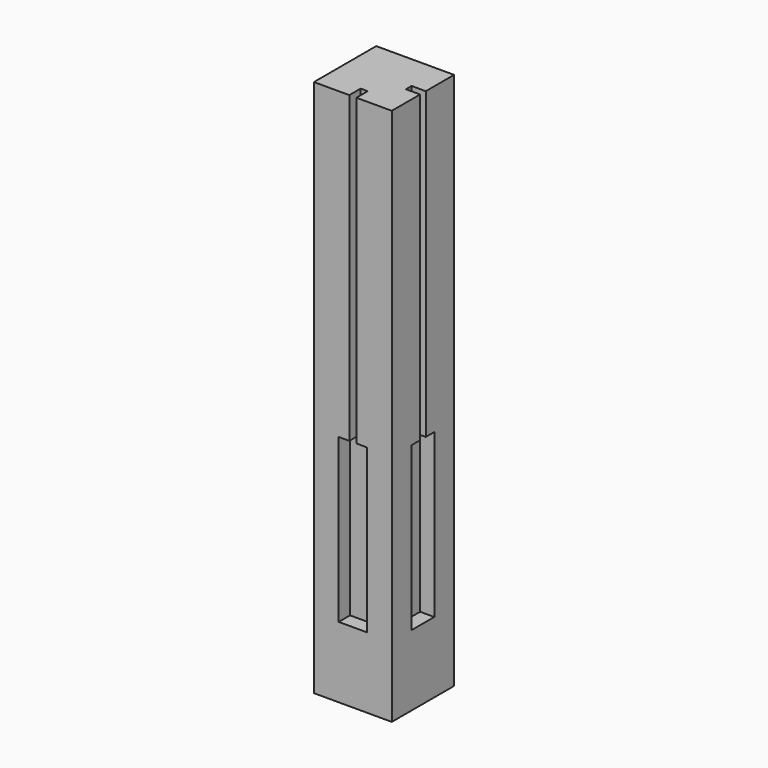
from build123d import *

# Parameters (mm, degrees)
SKETCH_W                = 55
SKETCH_H                = 55
PAD_DEPTH               = 380
POCKET_DEPTH            = 10
POLARPATTERN_COUNT      = 2
POLARPATTERN_ANGLE      = 90
BODY015_PLACEMENT_ANGLE = 90


with BuildPart() as part:
    # Sketch → Pad (new body)
    with BuildSketch(Plane.XY):
        Rectangle(SKETCH_W, SKETCH_H)
    extrude(amount=PAD_DEPTH)

    # Sketch001 (on DatumPlane) → Pocket (cut)
    with BuildSketch(Plane.YZ.offset(27.5)):
        Polygon((-10, 165), (-2.5, 165), (-2.5, 510), (2.5, 510), (2.5, 165), (10, 165), (10, 50), (-10, 50), align=None)
    pocket = extrude(amount=-POCKET_DEPTH, mode=Mode.SUBTRACT)

    # PolarPattern: Pocket ×2 about axis
    polarpattern_axis = Axis((0, 0, 0), (0, 0, 1))
    for i in range(1, POLARPATTERN_COUNT):
        add(pocket.rotate(polarpattern_axis, i * POLARPATTERN_ANGLE / (POLARPATTERN_COUNT - 1)), mode=Mode.SUBTRACT)


with BuildPart() as part_1:
    # Body placement: moved
    add(part.part.moved(Location((-10, 0, 0))))


with BuildPart() as part_2:
    # Clone009 placement: moved
    add(part_1.part.moved(Location((10, 0, 0))))


with BuildPart() as part_3:
    # Body015 placement: moved
    add(part_2.part.moved(Location((-10, 795, 0))).rotate(Axis((-10, 795, 0), (0, 0, -1)), BODY015_PLACEMENT_ANGLE))


solid = part_3.part
